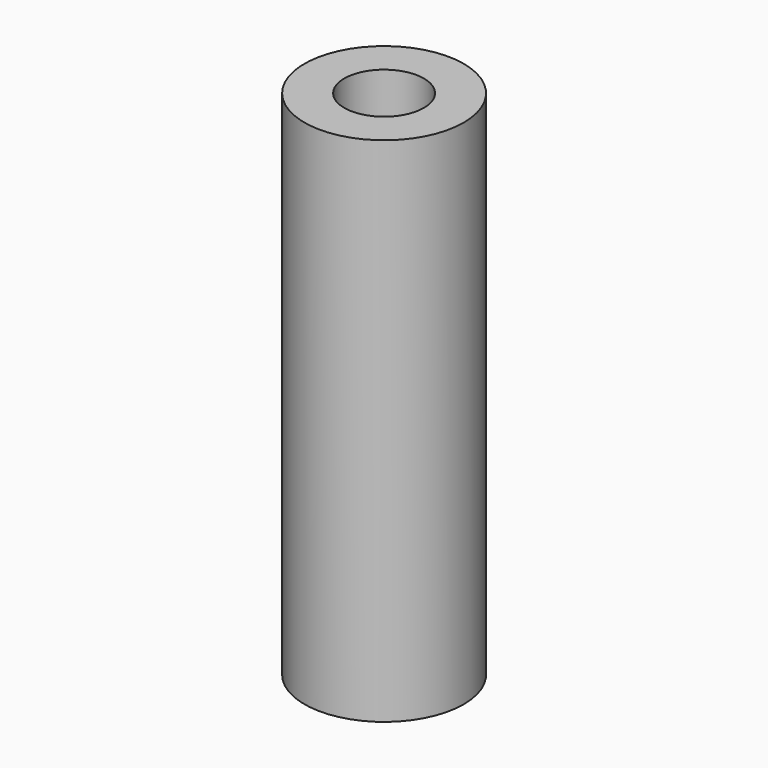
from build123d import *

# Parameters (mm, degrees)
SKETCH_R   = 7
SKETCH_R_2 = 3.5
PAD_DEPTH  = 45


with BuildPart() as part:
    # Sketch → Pad (new body)
    with BuildSketch(Plane.XY):
        Circle(SKETCH_R)
        Circle(SKETCH_R_2, mode=Mode.SUBTRACT)
    extrude(amount=PAD_DEPTH)


solid = part.part
